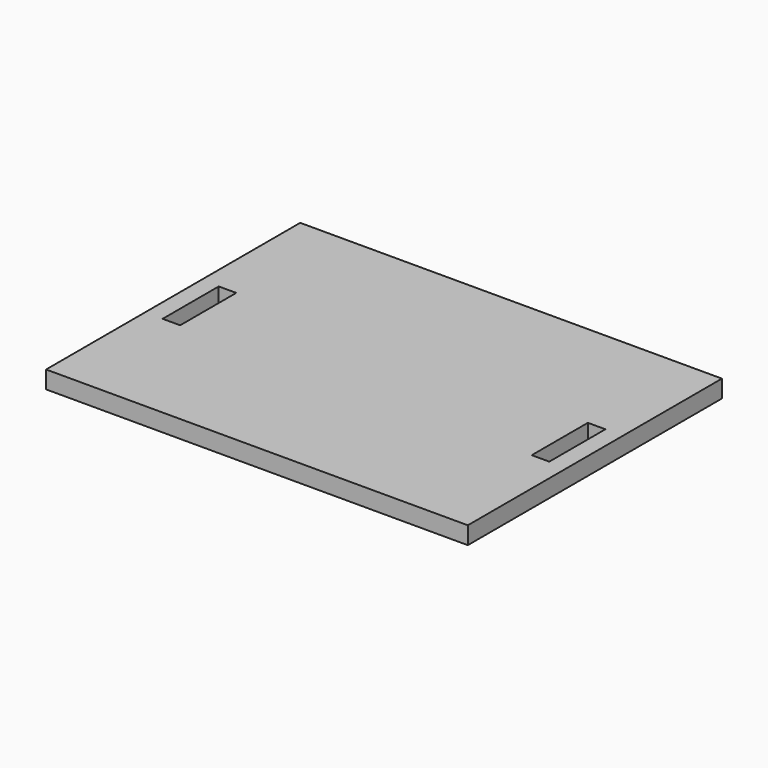
from build123d import *

# Parameters (mm, degrees)
F1_DEPTH = 6.35


with BuildPart() as f1:
    # F0 (on Top) → F1 (new body)
    with BuildSketch(Plane.XY):
        Polygon((70, 12.7), (70, 57.5), (-70, 57.5), (-70, 12.7), (-63.65, 12.7), (-63.65, -12.7), (-70, -12.7), (-70, -57.5), (70, -57.5), (70, -12.7), (63.65, -12.7), (63.65, 12.7), align=None)
        Polygon((76.35, 57.5), (70, 57.5), (70, 12.7), (70, -12.7), (70, -57.5), (76.35, -57.5), align=None)
        Polygon((-70, 12.7), (-70, 57.5), (-76.35, 57.5), (-76.35, -57.5), (-70, -57.5), (-70, -12.7), align=None)
    extrude(amount=F1_DEPTH)


solid = f1.part
